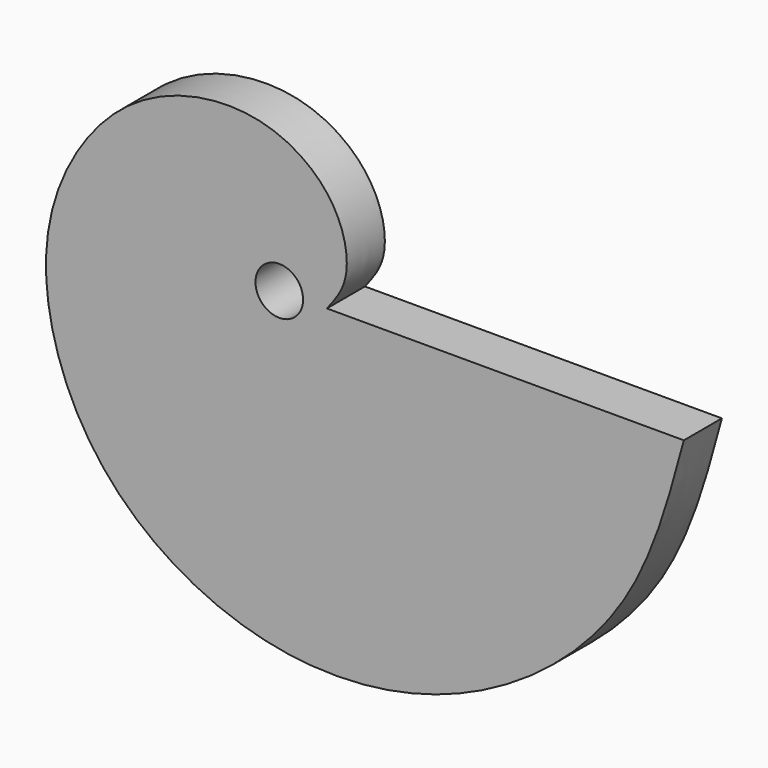
from build123d import *

# Parameters (mm, degrees)
F0_R     = 5
F1_DEPTH = 10


with BuildPart() as f1:
    # F0 (on Front) → F1 (new body)
    with BuildSketch(Plane.XZ):
        with BuildLine():
            add(Edge.make_bspline(
                [(85, 0), (81.9655526577, -11.287600354), (75.9645714977, -33.6101749207), (51.427555532, -57.6334464864), (22.0037465309, -68.7237977049), (-7.0629990614, -66.6449947579), (-31.3009980559, -53.3937415394), (-45.8854062786, -33.3583858764), (-50.7351759938, -9.9785236718), (-45.3365458913, 9.5035281734), (-33.4250634449, 24.3810185234), (-18.2843349717, 31.1559769534), (-2.9774849224, 31.046126199), (8.4764691278, 24.5399468843), (14.1316945355, 15.3022347643), (14.608693454, 5.8927104819), (11.4858474675, 1.8998158662), (10, 0)],
                knots=[0, 0, 0, 0, 0.0884698071, 0.1749595843, 0.258423339, 0.338595546, 0.4165219801, 0.4906141499, 0.5629465535, 0.6297736597, 0.6944278313, 0.7548908342, 0.8128688193, 0.8663845259, 0.9151391671, 0.9596232878, 1, 1, 1, 1], degree=3))
            Line((85, 0), (10, 0))
        make_face()
        Circle(F0_R, mode=Mode.SUBTRACT)
    extrude(amount=F1_DEPTH)


solid = f1.part
